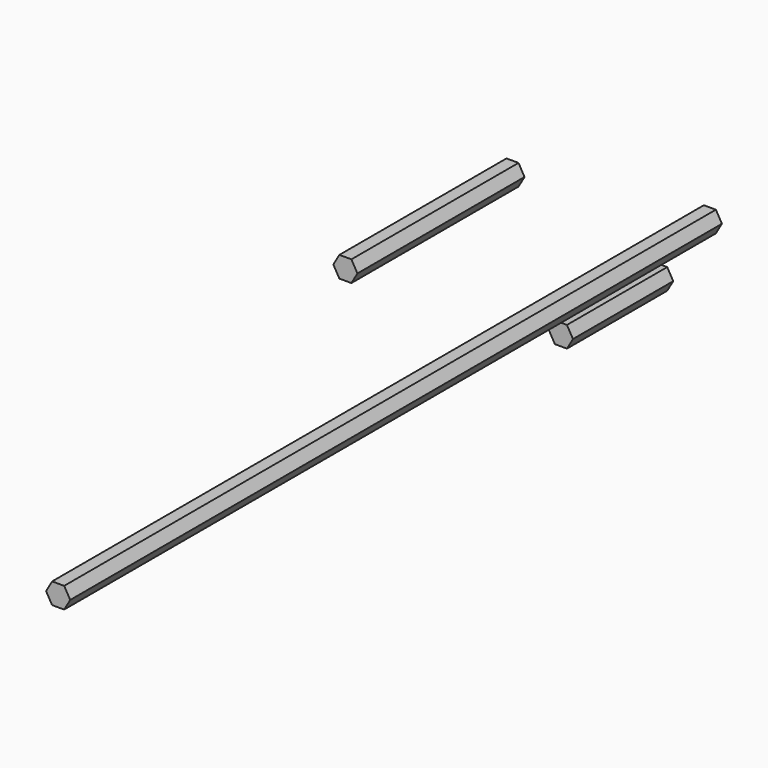
from build123d import *

# Parameters (mm, degrees)
F1_DEPTH = 38.1
F3_DEPTH = 127
F5_DEPTH = 495.3


with BuildPart() as f1:
    # F0 (on Front) → F1 (new body, symmetric)
    with BuildSketch(Plane.XZ):
        Polygon((7.3323484187, 0), (3.6661742094, 6.35), (-3.6661742094, 6.35), (-7.3323484187, 0), (-3.6661742094, -6.35), (3.6661742094, -6.35), align=None)
    extrude(amount=F1_DEPTH, both=True)


with BuildPart() as f3:
    # F2 (on Front) → F3 (new body)
    with BuildSketch(Plane.XZ):
        Polygon((-52.598492423, 51.7540338576), (-56.2646666324, 58.1040338576), (-63.5970150511, 58.1040338576), (-67.2631892604, 51.7540338576), (-63.5970150511, 45.4040338576), (-56.2646666324, 45.4040338576), align=None)
    extrude(amount=F3_DEPTH)


with BuildPart() as f5:
    # F4 (on Front) → F5 (new body)
    with BuildSketch(Plane.XZ):
        Polygon((67.3988673892, 65.7318855762), (63.7326931799, 72.0818855762), (56.4003447612, 72.0818855762), (52.7341705518, 65.7318855762), (56.4003447612, 59.3818855762), (63.7326931799, 59.3818855762), align=None)
    extrude(amount=F5_DEPTH)


solid = Compound([f1.part, f3.part, f5.part])
